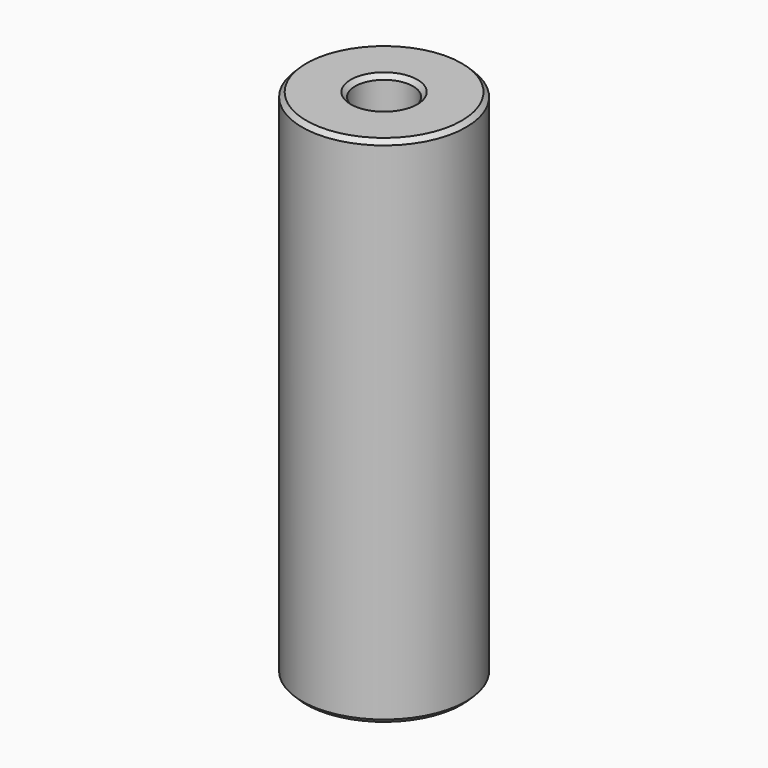
from build123d import *

# Parameters (mm, degrees)
CYLINDER044_R     = 2.65
CYLINDER044_DEPTH = 47
CYLINDER045_R     = 7.5
CYLINDER045_DEPTH = 47
CHAMFER025_SIZE   = 0.4


with BuildPart() as cylinder045:
    # Cylinder044 → Cylinder044 (new body)
    with BuildSketch(Plane.XY):
        Circle(CYLINDER044_R)
    extrude(amount=CYLINDER044_DEPTH)


with BuildPart() as long_rod:
    # Cylinder045 → Cylinder045 (new body)
    with BuildSketch(Plane.XY):
        Circle(CYLINDER045_R)
    extrude(amount=CYLINDER045_DEPTH)

    # Cut031: cut Cylinder045
    add(cylinder045.part, mode=Mode.SUBTRACT)

    # Chamfer025
    chamfer025_edges = [long_rod.edges().sort_by_distance(p)[0] for p in [
        (-7.5, 0, 47),
        (-7.5, 0, 0),
        (-2.65, 0, 47),
        (-2.65, 0, 0),
    ]]
    chamfer(chamfer025_edges, length=CHAMFER025_SIZE)


solid = long_rod.part
